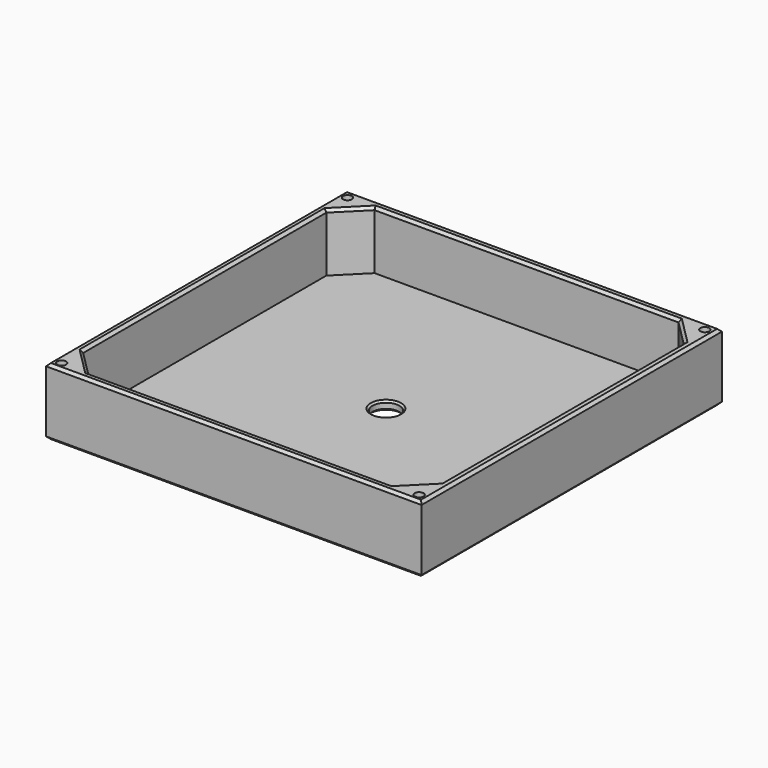
from build123d import *

# Parameters (mm, degrees)
F0_W     = 106.68
F0_H     = 106.68
F0_W_2   = 101.6
F0_H_2   = 101.6
F1_DEPTH = 19.05
F2_W     = 104.656483978
F2_H     = 104.4136583805
F3_DEPTH = 2.54
F4_R     = 3.81
F5_DEPTH = 12.7
F6_SIZE  = 7.62
F7_R     = 1.27
F8_DEPTH = 38.1
F9_SIZE  = 0.508
F10_SIZE = 0.762
F11_SIZE = 0.762


with BuildPart() as f1:
    # F0 (on Top) → F1 (new body)
    with BuildSketch(Plane.XY):
        with Locations((0.6475270653, -1.4974073434)):
            Rectangle(F0_W, F0_H)
        with Locations((0.5357495129, -1.5282401264)):
            Rectangle(F0_W_2, F0_H_2, mode=Mode.SUBTRACT)
    extrude(amount=F1_DEPTH)

    # F2 (on Top) → F3 (join)
    with BuildSketch(Plane.XY):
        with Locations((0.6070565432, -1.821167767)):
            Rectangle(F2_W, F2_H)
    extrude(amount=F3_DEPTH)

    # F4 (on Top) → F5 (cut, symmetric)
    with BuildSketch(Plane.XY):
        Circle(F4_R)
    extrude(amount=F5_DEPTH, both=True, mode=Mode.SUBTRACT)

    # F6
    f6_edges = [f1.edges().sort_by_distance(p)[0] for p in [
        (-50.26425, 49.27176, 10.795),
        (51.33575, 49.27176, 10.795),
        (51.33575, -52.32824, 10.795),
        (-50.26425, -52.32824, 10.795),
    ]]
    chamfer(f6_edges, length=F6_SIZE)

    # F7 (on Top) → F8 (cut, symmetric)
    with BuildSketch(Plane.XY):
        with Locations((-50.1719862223, 49.0566454828)):
            Circle(F7_R)
        with Locations((51.3518936932, 49.0713790059)):
            Circle(F7_R)
        with Locations((51.4260791242, -52.4884499609)):
            Circle(F7_R)
        with Locations((-50.0576607883, -52.597168833)):
            Circle(F7_R)
    extrude(amount=F8_DEPTH, both=True, mode=Mode.SUBTRACT)

    # F9
    f9_edges = [f1.edges().sort_by_distance(p)[0] for p in [
        (-3.81, 0, 2.54),
        (-3.81, 0, 0),
    ]]
    chamfer(f9_edges, length=F9_SIZE)

    # F10
    f10_edges = [f1.edges().sort_by_distance(p)[0] for p in [
        (0.647527, -54.837407, 19.05),
        (-52.692473, -1.497407, 19.05),
        (53.987527, -1.497407, 19.05),
        (0.647527, 51.842593, 19.05),
        (51.33575, -1.52824, 19.05),
        (47.52575, -48.51824, 19.05),
        (0.53575, -52.32824, 19.05),
        (47.52575, 45.46176, 19.05),
        (0.53575, 49.27176, 19.05),
        (-46.45425, 45.46176, 19.05),
        (-50.26425, -1.52824, 19.05),
        (-46.45425, -48.51824, 19.05),
    ]]
    chamfer(f10_edges, length=F10_SIZE)

    # F11
    f11_edges = [f1.edges().sort_by_distance(p)[0] for p in [
        (-52.692473, -1.497407, 0),
        (0.647527, 51.842593, 0),
        (0.647527, -54.837407, 0),
        (53.987527, -1.497407, 0),
    ]]
    chamfer(f11_edges, length=F11_SIZE)


solid = f1.part
